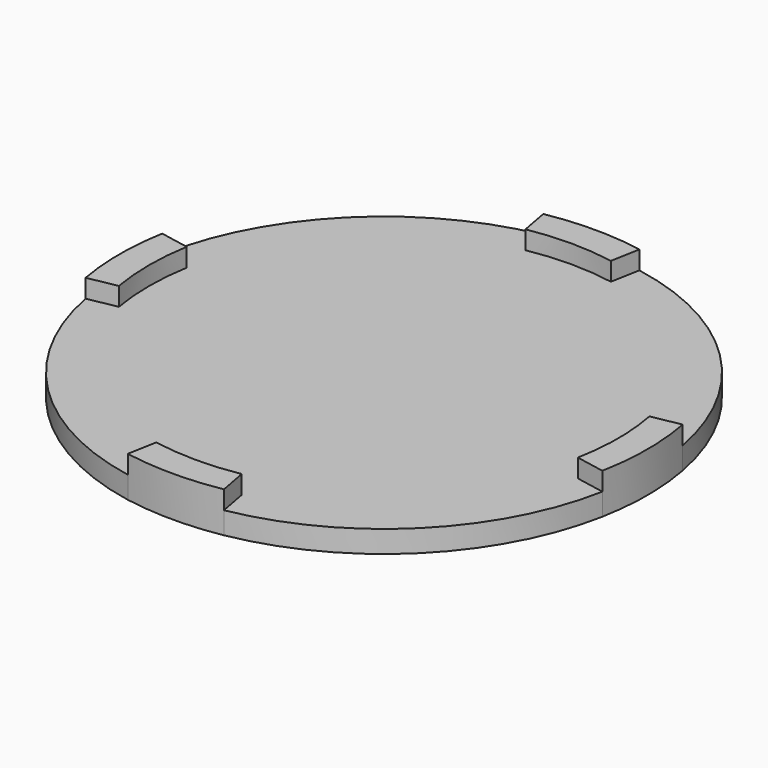
from build123d import *

# Parameters (mm, degrees)
F1_DEPTH = 1.2
F2_DEPTH = 2.2


with BuildPart() as f1:
    # F0 (on Top) → F1 (new body)
    with BuildSketch(Plane.XY):
        with BuildLine():
            ThreePointArc((-2.61423, 14.119491), (-10.150846, 10.145596), (-14.120842, 2.606925))
            Line((-14.120842, 2.606925), (-12.54888, 2.308583))
            ThreePointArc((-12.54888, 2.308583), (-12.746063, 0.003032), (-12.549977, -2.302612))
            Line((-12.549977, -2.302612), (-14.122546, -2.597676))
            ThreePointArc((-14.122546, -2.597676), (-10.138682, -10.128644), (-2.611663, -14.119966))
            Line((-2.611663, -14.119966), (-2.320738, -12.546638))
            ThreePointArc((-2.320738, -12.546638), (0.002028, -12.751949), (2.324728, -12.545899))
            Line((2.324728, -12.545899), (2.616123, -14.119141))
            ThreePointArc((2.616123, -14.119141), (10.123734, -10.218797), (14.094074, -2.747967))
            Line((14.094074, -2.747967), (12.522112, -2.449625))
            ThreePointArc((12.522112, -2.449625), (12.759115, -0.023547), (12.531068, 2.40339))
            Line((12.531068, 2.40339), (14.103637, 2.698454))
            ThreePointArc((14.103637, 2.698454), (10.129638, 10.19315), (2.610249, 14.120228))
            Line((2.610249, 14.120228), (2.319324, 12.546899))
            ThreePointArc((2.319324, 12.546899), (-0.001785, 12.754501), (-2.322835, 12.54625))
            Line((-2.322835, 12.54625), (-2.61423, 14.119491))
        make_face()
    extrude(amount=F1_DEPTH)

    # F0 (on Top) → F2 (join)
    with BuildSketch(Plane.XY):
        with BuildLine():
            Line((-12.54888, 2.308583), (-14.120842, 2.606925))
            ThreePointArc((-14.120842, 2.606925), (-14.353052, 0.0047), (-14.122546, -2.597676))
            Line((-14.122546, -2.597676), (-12.549977, -2.302612))
            ThreePointArc((-12.549977, -2.302612), (-12.746063, 0.003032), (-12.54888, 2.308583))
        make_face()
        with BuildLine():
            ThreePointArc((2.610249, 14.120228), (-0.002024, 14.357977), (-2.61423, 14.119491))
            Line((-2.61423, 14.119491), (-2.322835, 12.54625))
            ThreePointArc((-2.322835, 12.54625), (-0.001785, 12.754501), (2.319324, 12.546899))
            Line((2.319324, 12.546899), (2.610249, 14.120228))
        make_face()
        with BuildLine():
            ThreePointArc((14.094074, -2.747967), (14.356041, -0.025208), (14.103637, 2.698454))
            Line((14.103637, 2.698454), (12.531068, 2.40339))
            ThreePointArc((12.531068, 2.40339), (12.759115, -0.023547), (12.522112, -2.449625))
            Line((12.522112, -2.449625), (14.094074, -2.747967))
        make_face()
        with BuildLine():
            Line((-2.320738, -12.546638), (-2.611663, -14.119966))
            ThreePointArc((-2.611663, -14.119966), (0.002266, -14.349251), (2.616123, -14.119141))
            Line((2.616123, -14.119141), (2.324728, -12.545899))
            ThreePointArc((2.324728, -12.545899), (0.002028, -12.751949), (-2.320738, -12.546638))
        make_face()
    extrude(amount=F2_DEPTH)


solid = f1.part
